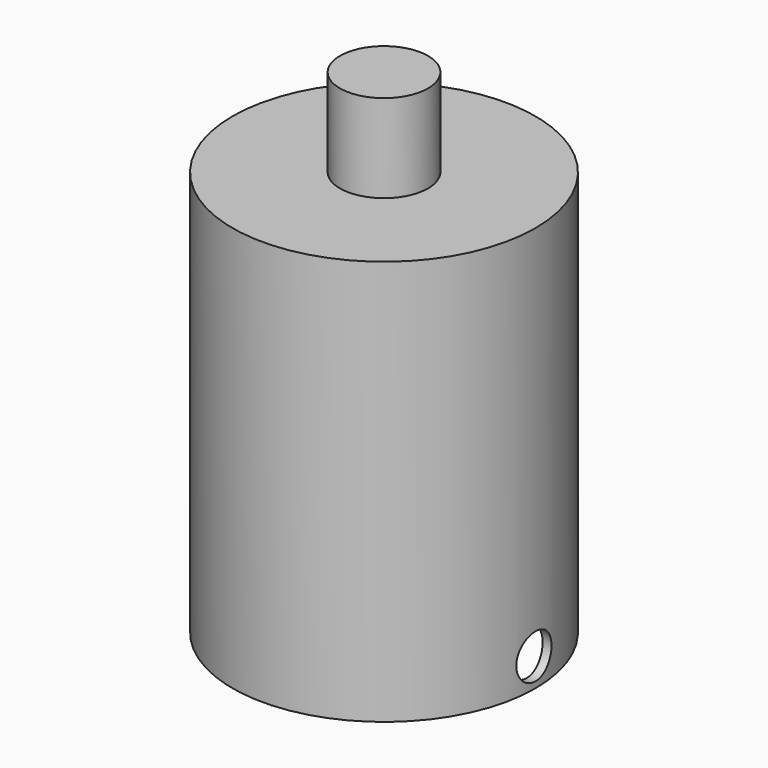
from build123d import *

# Parameters (mm, degrees)
F0_W     = 10.922
F0_H     = 25.4
F4_W     = 0.635
F4_H     = 3.81
F6_R     = 1.5875
F7_DEPTH = 12.7
F8_R     = 3.175
F9_DEPTH = 6.35


with BuildPart() as f1:
    # F0 (on Front) → F1 (revolve)
    with BuildSketch(Plane.XZ):
        with Locations((5.461, 0)):
            Rectangle(F0_W, F0_H)
    revolve(axis=Axis((0, 0, 0), (0, 0, -1)))

    # F2 (on face) → F3 (revolve, cut)
    with BuildSketch(Plane(origin=(0, 0, -12.7), x_dir=(1, 0, 0), z_dir=(0, 0, -1))):
        with BuildLine():
            Line((0, 10.287), (0, -10.287))
            ThreePointArc((0, -10.287), (10.287, 0), (0, 10.287))
        make_face()
    revolve(axis=Axis((0, 0, -12.7), (0, 1, 0)), mode=Mode.SUBTRACT)

    # F4 (on Front) → F5 (revolve)
    with BuildSketch(Plane.XZ):
        with Locations((10.6045, -14.605)):
            Rectangle(F4_W, F4_H)
    revolve(axis=Axis((0, 0, -6.3285445794), (0, 0, -1)))

    # F6 (on Right) → F7 (cut, symmetric)
    with BuildSketch(Plane.YZ):
        with Locations((0, -14.478)):
            Circle(F6_R)
    extrude(amount=F7_DEPTH, both=True, mode=Mode.SUBTRACT)

    # F8 (on face) → F9 (join)
    with BuildSketch(Plane.XY.offset(12.7)):
        Circle(F8_R)
    extrude(amount=F9_DEPTH)


solid = f1.part
